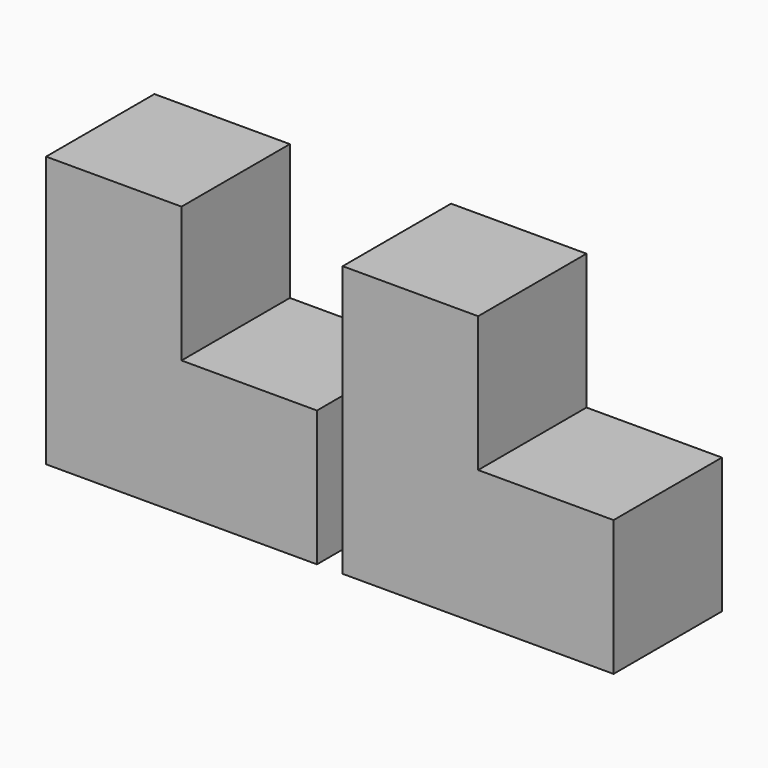
from build123d import *

# Parameters (mm, degrees)
F1_DEPTH = 25.4


with BuildPart() as f1:
    # F0 (on Front) → F1 (new body)
    with BuildSketch(Plane.XZ):
        Polygon((-1.565587, 40.62029), (-26.965587, 40.62029), (-26.965587, -10.17971), (23.834413, -10.17971), (23.834413, 15.22029), (-1.565587, 15.22029), align=None)
    extrude(amount=F1_DEPTH)


with BuildPart() as f2_1:
    # F2: copy of F1
    add(f1.part.moved(Location((55.626, 0, 0))))


solid = Compound([f1.part, f2_1.part])
